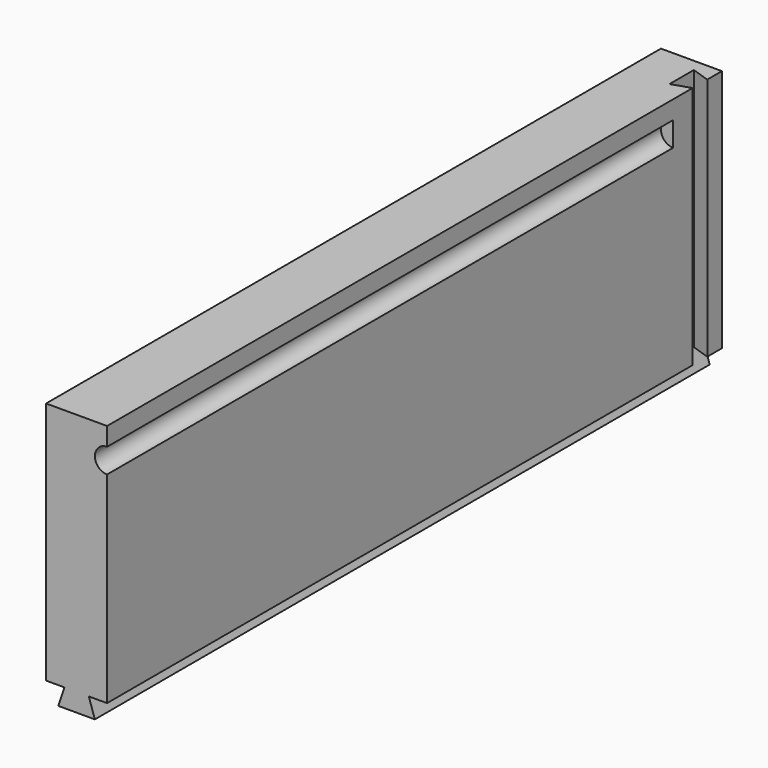
from build123d import *

# Parameters (mm, degrees)
F0_W     = 63
F0_H     = 21.5
F1_DEPTH = 5
F3_DEPTH = 58
F4_DEPTH = 63.001
F6_DEPTH = 20


with BuildPart() as f1:
    # F0 (on Right) → F1 (new body)
    with BuildSketch(Plane.YZ):
        Rectangle(F0_W, F0_H)
    extrude(amount=F1_DEPTH)

    # F2 (on face) → F3 (cut)
    with BuildSketch(Plane.XZ.offset(31.5)):
        with BuildLine():
            Line((5, 7.25), (5, 9.25))
            ThreePointArc((5, 9.25), (4, 8.25), (5, 7.25))
        make_face()
    extrude(amount=-F3_DEPTH, mode=Mode.SUBTRACT)

    # F2 (on face) → F4 (cut, through all)
    with BuildSketch(Plane.XZ.offset(31.5)):
        Polygon((1.5, -9.25), (0, -9.25), (0, -10.75), (1, -10.75), align=None)
        Polygon((3.5, -9.25), (4, -10.75), (5, -10.75), (5, -9.25), align=None)
    extrude(amount=-F4_DEPTH, mode=Mode.SUBTRACT)

    # F5 (on face) → F6 (cut, through all)
    with BuildSketch(Plane.XY.offset(10.75)):
        Polygon((5, 28.5), (5, 30), (3.5, 30.5), (3.5, 28), align=None)
    extrude(amount=-F6_DEPTH, mode=Mode.SUBTRACT)


solid = f1.part
